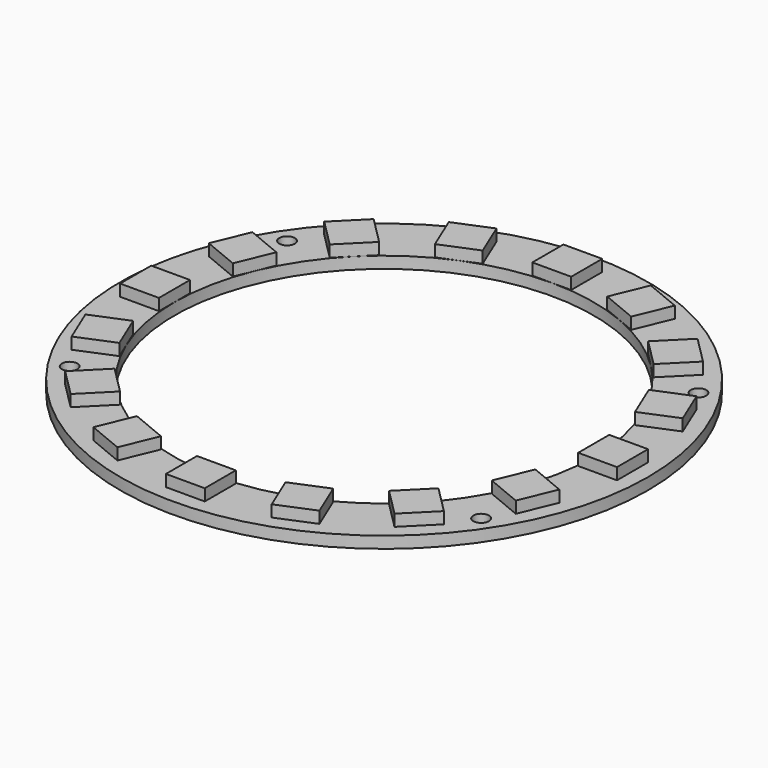
from build123d import *

# Parameters (mm, degrees)
SKETCH_R           = 34
SKETCH_R_2         = 27
PAD_DEPTH          = 1.5
SKETCH001_W        = 1.2
SKETCH001_H        = 2
PAD001_DEPTH       = 0.1
SKETCH002_R        = 1
POCKET_DEPTH       = 1.601
SKETCH003_W        = 5
SKETCH003_H        = 5
PAD002_DEPTH       = 1.5
POLARPATTERN_COUNT = 16


with BuildPart() as part:
    # Sketch → Pad (new body)
    with BuildSketch(Plane.XY):
        Circle(SKETCH_R)
        Circle(SKETCH_R_2, mode=Mode.SUBTRACT)
    extrude(amount=PAD_DEPTH)

    # Sketch001 (on Face3 of Pad) → Pad001 (join)
    with BuildSketch(Plane(origin=(0, 0, 0), x_dir=(1, 0, 0), z_dir=(0, 0, -1))):
        with Locations((-3.4, 31.5)):
            Rectangle(SKETCH001_W, SKETCH001_H)
        with Locations((-1.133333, 31.5)):
            Rectangle(SKETCH001_W, SKETCH001_H)
        with Locations((1.133333, 31.5)):
            Rectangle(SKETCH001_W, SKETCH001_H)
        with Locations((3.4, 31.5)):
            Rectangle(SKETCH001_W, SKETCH001_H)
    extrude(amount=PAD001_DEPTH)

    # Sketch002 (on Face3 of Pad001) → Pocket (cut, through all)
    with BuildSketch(Plane.XY.offset(1.5)):
        with Locations((-26.5, 17.5)):
            Circle(SKETCH002_R)
        with Locations((26.5, 17.5)):
            Circle(SKETCH002_R)
        with Locations((26.5, -17.5)):
            Circle(SKETCH002_R)
        with Locations((-26.5, -17.5)):
            Circle(SKETCH002_R)
    extrude(amount=-POCKET_DEPTH, mode=Mode.SUBTRACT)

    # Sketch003 (on Face3 of Pocket) → Pad002 (join)
    with BuildSketch(Plane.XY.offset(1.5)):
        with Locations((0, 29.5)):
            Rectangle(SKETCH003_W, SKETCH003_H)
    pad002 = extrude(amount=PAD002_DEPTH)

    # PolarPattern: Pad002 ×16 about axis
    polarpattern_axis = Axis((0, 0, 1.5), (0, 0, 1))
    for i in range(1, POLARPATTERN_COUNT):
        add(pad002.rotate(polarpattern_axis, i * 360 / POLARPATTERN_COUNT))


solid = part.part
